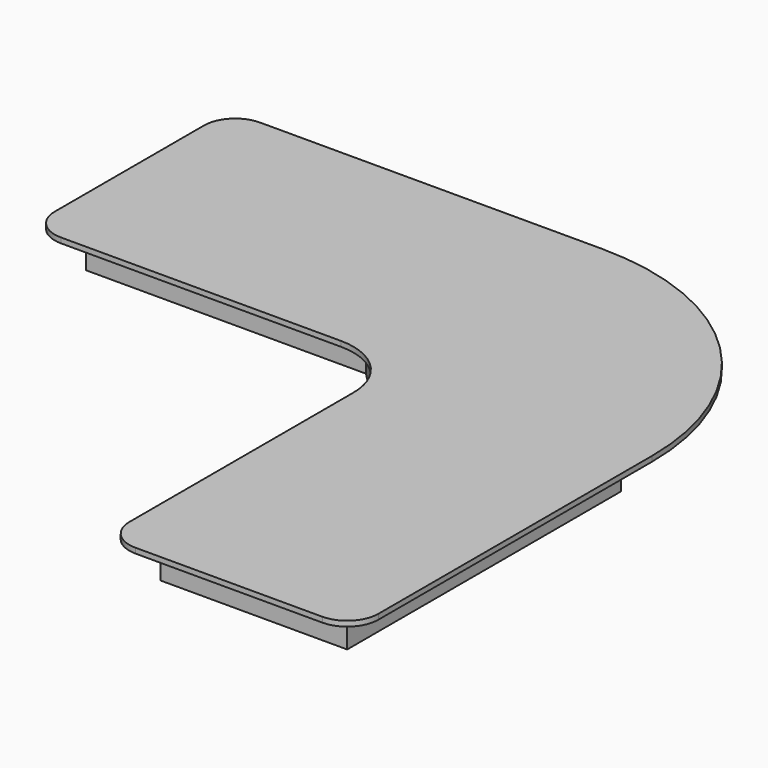
from build123d import *

# Parameters (mm, degrees)
F1_DEPTH = 12.7
F3_DEPTH = 88.9


with BuildPart() as f1:
    # F0 (on Top) → F1 (new body)
    with BuildSketch(Plane.XY):
        with BuildLine():
            Line((-1040.652294, -431.052294), (-1878.852294, -431.052294))
            ThreePointArc((-1878.852294, -431.052294), (-1932.733831, -453.370757), (-1955.052294, -507.252294))
            Line((-1955.052294, -507.252294), (-1955.052294, -964.452294))
            ThreePointArc((-1955.052294, -964.452294), (-1932.733831, -1018.333831), (-1878.852294, -1040.652294))
            Line((-1878.852294, -1040.652294), (-1193.052294, -1040.652294))
            ThreePointArc((-1193.052294, -1040.652294), (-1085.28922, -1085.28922), (-1040.652294, -1193.052294))
            Line((-1040.652294, -1193.052294), (-1040.652294, -1878.852294))
            ThreePointArc((-1040.652294, -1878.852294), (-1018.333831, -1932.733831), (-964.452294, -1955.052294))
            Line((-964.452294, -1955.052294), (-507.252294, -1955.052294))
            ThreePointArc((-507.252294, -1955.052294), (-453.370757, -1932.733831), (-431.052294, -1878.852294))
            Line((-431.052294, -1878.852294), (-431.052294, -1040.652294))
            ThreePointArc((-431.052294, -1040.652294), (-609.6, -609.6), (-1040.652294, -431.052294))
        make_face()
    extrude(amount=F1_DEPTH)

    # F2 (on face) → F3 (join)
    with BuildSketch(Plane(origin=(0, 0, 0), x_dir=(1, 0, 0), z_dir=(0, 0, -1))):
        Polygon((-507.252294, 1878.852294), (-964.452294, 1878.852294), (-964.452294, 1193.052294), (-1193.052294, 964.452294), (-1878.852294, 964.452294), (-1878.852294, 507.252294), (-1040.652294, 507.252294), (-507.252294, 1040.652294), align=None)
        Polygon((-945.402294, 1185.161525), (-945.402294, 1859.802294), (-526.302294, 1859.802294), (-526.302294, 1048.543062), (-1048.543062, 526.302294), (-1859.802294, 526.302294), (-1859.802294, 945.402294), (-1185.161525, 945.402294), align=None, mode=Mode.SUBTRACT)
    extrude(amount=F3_DEPTH)


solid = f1.part
